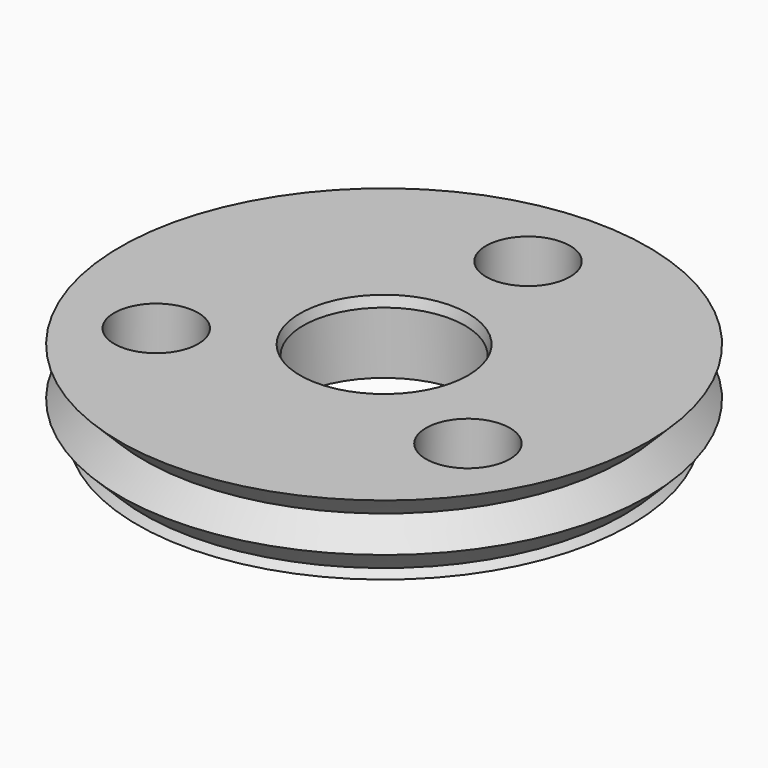
from build123d import *

# Parameters (mm, degrees)
SKETCH019_W    = 10
SKETCH019_H    = 2.7812096768
SKETCH005_W    = 10
SKETCH005_H    = 2.2955317108
CYLINDER_R     = 1.4
CYLINDER_DEPTH = 10
ARRAY001_COUNT = 3
SKETCH018_W    = 3.15
SKETCH018_H    = 2.3
SKETCH002_W    = 5
SKETCH002_H    = 6.8
ARRAY_Z_COUNT  = 6
ARRAY_Z_PITCH  = 1.6


with BuildPart() as obj1:
    # Sketch019 → Revolution008 (revolve)
    with BuildSketch(Plane.XZ):
        with Locations((5, 3.1861365492)):
            Rectangle(SKETCH019_W, SKETCH019_H)
    revolve(axis=Axis((0, 0, 0), (0, 0, 1)))


with BuildPart() as clone_of_lowerdomain001:
    # Sketch005 → Revolution004 (revolve)
    with BuildSketch(Plane.XZ):
        with Locations((5, 0.6477658554)):
            Rectangle(SKETCH005_W, SKETCH005_H)
    revolve(axis=Axis((0, 0, 0), (0, 0, 1)))


with BuildPart() as boltholes:
    # Cylinder → Cylinder (new body)
    with BuildSketch(Plane(origin=(0, 6, -1), x_dir=(1, 0, 0), z_dir=(0, 0, 1))):
        Circle(CYLINDER_R)
    extrude(amount=CYLINDER_DEPTH)

    # Array001: BoltHoles ×3 about axis
    array001_axis = Axis((0, 0, 0), (0, 0, 1))


with BuildPart() as boltholes_1:
    add(boltholes.part)
    for i in range(1, ARRAY001_COUNT):
        add(boltholes.part.rotate(array001_axis, i * 360 / ARRAY001_COUNT))


with BuildPart() as obj2:
    # Sketch018 → Revolution007 (revolve)
    with BuildSketch(Plane.XZ):
        with Locations((1.575, 5.7267413876)):
            Rectangle(SKETCH018_W, SKETCH018_H)
    revolve(axis=Axis((0, 0, 0), (0, 0, 1)))


with BuildPart() as obj3:
    # Sketch007 → Revolution006 (revolve)
    with BuildSketch(Plane.XZ):
        with BuildLine():
            ThreePointArc((1.5, 1.7955317108), (0.867020761, 2.4322916436), (0, 2.6655317108))
            Line((0, 2.6655317108), (0, 0.7955317108))
            Line((0, 0.7955317108), (1.5, 0.7955317108))
            Line((1.5, 1.7955317108), (1.5, 0.7955317108))
        make_face()
    revolve(axis=Axis((0, 0, 0), (0, 0, 1)))


with BuildPart() as obj4:
    # Sketch002 → Revolution002 (revolve)
    with BuildSketch(Plane.XZ):
        with Locations((7.5, 3.8)):
            Rectangle(SKETCH002_W, SKETCH002_H)
    revolve(axis=Axis((0, 0, 0), (0, 0, 1)))


with BuildPart() as innergroovetool:
    # Sketch001 → Revolution001 (revolve)
    with BuildSketch(Plane.XZ):
        Polygon((4, 8), (4, 6.4), (8, 6.4), (8.8, 7.2), (8, 8), align=None)
    revolve(axis=Axis((0, 0, 0), (0, 0, 1)))

    # Array Z: InnerGrooveTool ×6


with BuildPart() as innergroovetool_1:
    add(innergroovetool.part)
    with Locations(*[(0, 0, -i * ARRAY_Z_PITCH) for i in range(1, ARRAY_Z_COUNT)]):
        add(innergroovetool.part)

    # Common: intersect obj4
    add(obj4.part, mode=Mode.INTERSECT)


with BuildPart() as uppercut:
    # Sketch → Revolution (revolve)
    with BuildSketch(Plane.XZ):
        Polygon((1.2, 0.4), (8, 0.4), (8, 7.2), (2.8, 7.2), (1.2, 2.2), align=None)
    revolve(axis=Axis((0, 0, 0), (0, 0, 1)))

    # Fusion001: union InnerGrooveTool
    add(innergroovetool_1.part)

    # Cut: cut obj3
    add(obj3.part, mode=Mode.SUBTRACT)

    # Cut003: cut obj2
    add(obj2.part, mode=Mode.SUBTRACT)

    # Cut001: cut BoltHoles
    add(boltholes_1.part, mode=Mode.SUBTRACT)

    # Cut002: cut Clone of LowerDomain001
    add(clone_of_lowerdomain001.part, mode=Mode.SUBTRACT)

    # Cut004: cut obj1
    add(obj1.part, mode=Mode.SUBTRACT)


solid = uppercut.part
